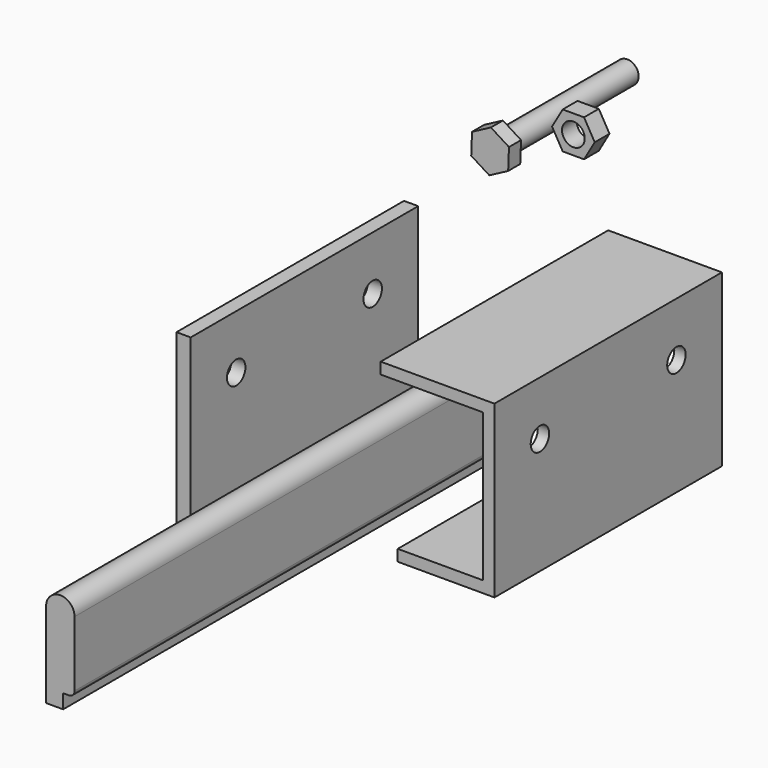
from build123d import *

# Parameters (mm, degrees)
F0_W      = 5
F0_H      = 60
F1_DEPTH  = 100
F3_DEPTH  = 100
F4_R      = 4.05
F5_DEPTH  = 4
F6_R      = 4.05
F7_DEPTH  = 5
F9_DEPTH  = 200
F11_DEPTH = 5.3
F12_R     = 4
F13_DEPTH = 55
F14_R     = 4
F15_DEPTH = 6.5


with BuildPart() as f1:
    # F0 (on Front) → F1 (new body)
    with BuildSketch(Plane.XZ):
        with Locations((-87.047491, -17.891926)):
            Rectangle(F0_W, F0_H)
    extrude(amount=F1_DEPTH)

    # F6 (on face) → F7 (cut)
    with BuildSketch(Plane(origin=(-89.547491, 0, 0), x_dir=(0, -1, 0), z_dir=(-1, 0, 0))):
        with Locations((20, -6.891926)):
            Circle(F6_R)
        with Locations((80, -6.891926)):
            Circle(F6_R)
    extrude(amount=-F7_DEPTH, mode=Mode.SUBTRACT)


with BuildPart() as f3:
    # F2 (on Front) → F3 (new body)
    with BuildSketch(Plane.XZ):
        Polygon((22.257432, 26.339761), (-17.742568, 26.339761), (-17.742568, 22.339761), (18.257432, 22.339761), (18.257432, -29.660239), (-11.742568, -29.660239), (-11.742568, -33.660239), (22.257432, -33.660239), align=None)
    extrude(amount=F3_DEPTH)

    # F4 (on face) → F5 (cut)
    with BuildSketch(Plane.YZ.offset(22.257432)):
        with Locations((-20, 7.339761)):
            Circle(F4_R)
        with Locations((-80, 7.339761)):
            Circle(F4_R)
    extrude(amount=-F5_DEPTH, mode=Mode.SUBTRACT)


with BuildPart() as f9:
    # F8 (on Front) → F9 (new body)
    with BuildSketch(Plane.XZ):
        with BuildLine():
            Line((-45.404034, -43.959478), (-45.404034, -20.959478))
            ThreePointArc((-45.404034, -20.959478), (-50.404034, -15.959478), (-55.404034, -20.959478))
            Line((-55.404034, -20.959478), (-55.404034, -45.959478))
            Line((-55.404034, -45.959478), (-55.404034, -50.959478))
            Line((-55.404034, -50.959478), (-49.404034, -50.959478))
            Line((-49.404034, -50.959478), (-49.404034, -45.959478))
            Line((-49.404034, -45.959478), (-47.404034, -45.959478))
            ThreePointArc((-47.404034, -45.959478), (-45.98982, -45.373691), (-45.404034, -43.959478))
        make_face()
    extrude(amount=F9_DEPTH)


with BuildPart() as f11:
    # F10 (on Front) → F11 (new body)
    with BuildSketch(Plane.XZ):
        Polygon((-55.306044, 33.302672), (-48.669684, 36.808674), (-48.38779, 44.308932), (-54.742257, 48.303188), (-61.378618, 44.797185), (-61.660511, 37.296927), align=None)
    extrude(amount=F11_DEPTH)

    # F12 (on face) → F13 (join)
    with BuildSketch(Plane(origin=(0, 0, 0), x_dir=(-1, 0, 0), z_dir=(0, 1, 0))):
        with Locations((55.024151, 40.80293)):
            Circle(F12_R)
    extrude(amount=F13_DEPTH)


with BuildPart() as f15:
    # F14 (on Front) → F15 (new body)
    with BuildSketch(Plane.XZ):
        Polygon((-28.530349, 49.893404), (-21.024796, 49.893404), (-17.272019, 56.393404), (-21.024796, 62.893404), (-28.530349, 62.893404), (-32.283126, 56.393404), align=None)
        with Locations((-24.777573, 56.393404)):
            Circle(F14_R, mode=Mode.SUBTRACT)
    extrude(amount=F15_DEPTH)


solid = Compound([f1.part, f3.part, f9.part, f11.part, f15.part])
